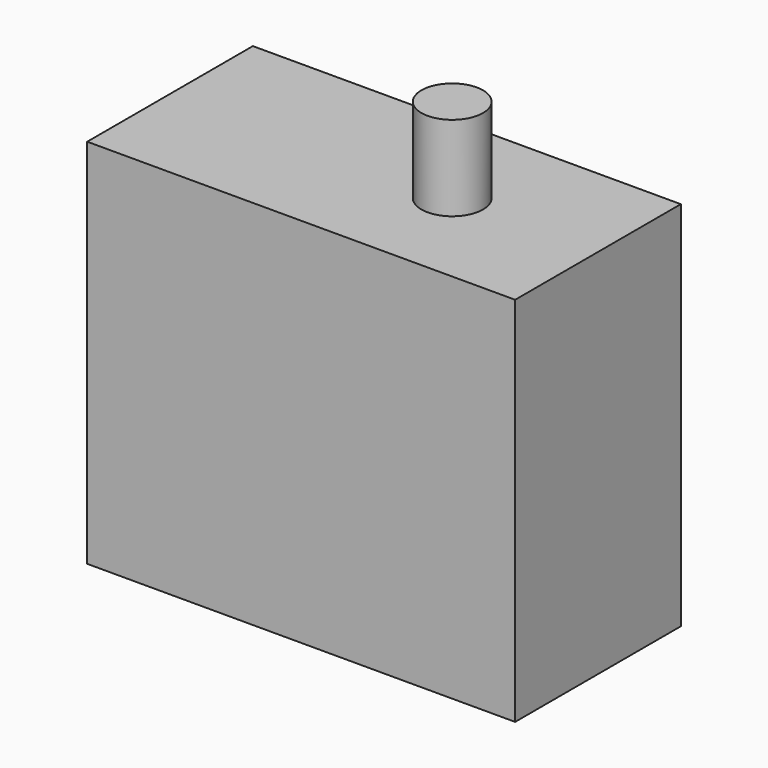
from build123d import *

# Parameters (mm, degrees)
SKETCH_W     = 40.3
SKETCH_H     = 19.5
PAD_DEPTH    = 35
SKETCH001_R  = 2.9
PAD001_DEPTH = 43


with BuildPart() as part:
    # Sketch → Pad (new body)
    with BuildSketch(Plane.XY):
        Rectangle(SKETCH_W, SKETCH_H)
    extrude(amount=PAD_DEPTH)

    # Sketch001 → Pad001 (join)
    with BuildSketch(Plane.XY):
        with Locations((6.425, 0)):
            Circle(SKETCH001_R)
    extrude(amount=PAD001_DEPTH)


solid = part.part
